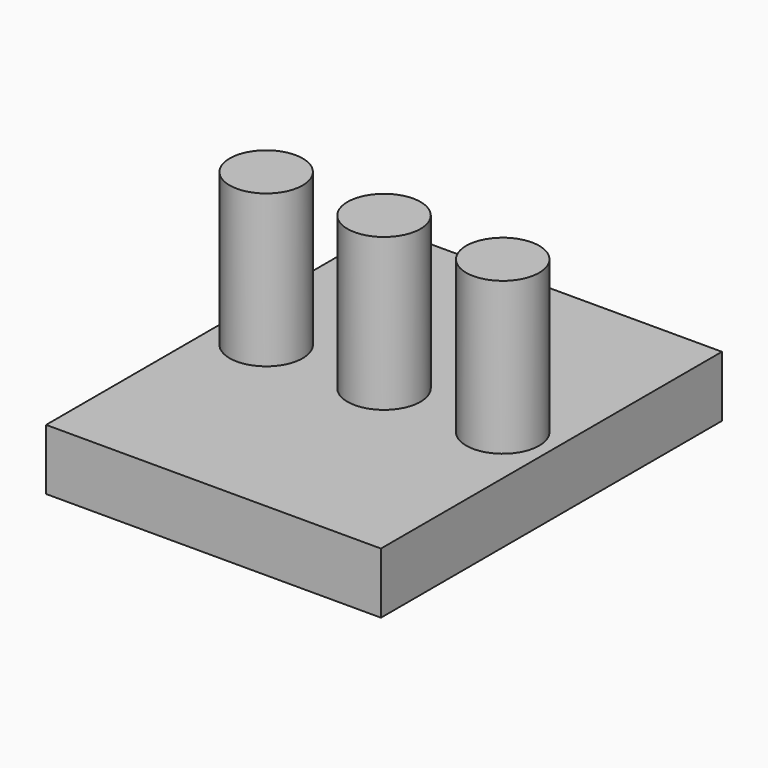
from build123d import *

# Parameters (mm, degrees)
F0_W     = 55
F0_H     = 70
F1_DEPTH = 10
F3_DEPTH = 25


with BuildPart() as f1:
    # F0 (on Top) → F1 (new body)
    with BuildSketch(Plane.XY):
        with Locations((-16.4421387017, 12.7911348291)):
            Rectangle(F0_W, F0_H)
    extrude(amount=-F1_DEPTH)

    # F2 (on face) → F3 (join)
    with BuildSketch(Plane.XY):
        with BuildLine():
            Line((-41.7943287017, 12.7911348291), (-29.7943287017, 12.7911348291))
            ThreePointArc((-29.7943287017, 12.7911348291), (-35.7943287017, 18.7911348291), (-41.7943287017, 12.7911348291))
        make_face()
        with BuildLine():
            ThreePointArc((-41.7943287017, 12.7911348291), (-35.7943287017, 6.7911348291), (-29.7943287017, 12.7911348291))
            Line((-29.7943287017, 12.7911348291), (-41.7943287017, 12.7911348291))
        make_face()
        with BuildLine():
            Line((-22.4421387017, 12.7911348291), (-10.4421387017, 12.7911348291))
            ThreePointArc((-10.4421387017, 12.7911348291), (-16.4421387017, 18.7911348291), (-22.4421387017, 12.7911348291))
        make_face()
        with BuildLine():
            ThreePointArc((-22.4421387017, 12.7911348291), (-16.4421387017, 6.7911348291), (-10.4421387017, 12.7911348291))
            Line((-10.4421387017, 12.7911348291), (-22.4421387017, 12.7911348291))
        make_face()
        with BuildLine():
            Line((-2.9411387017, 12.7911348291), (9.0588612983, 12.7911348291))
            ThreePointArc((9.0588612983, 12.7911348291), (3.0588612983, 18.7911348291), (-2.9411387017, 12.7911348291))
        make_face()
        with BuildLine():
            ThreePointArc((-2.9411387017, 12.7911348291), (3.0588612983, 6.7911348291), (9.0588612983, 12.7911348291))
            Line((9.0588612983, 12.7911348291), (-2.9411387017, 12.7911348291))
        make_face()
    extrude(amount=F3_DEPTH)


solid = f1.part
